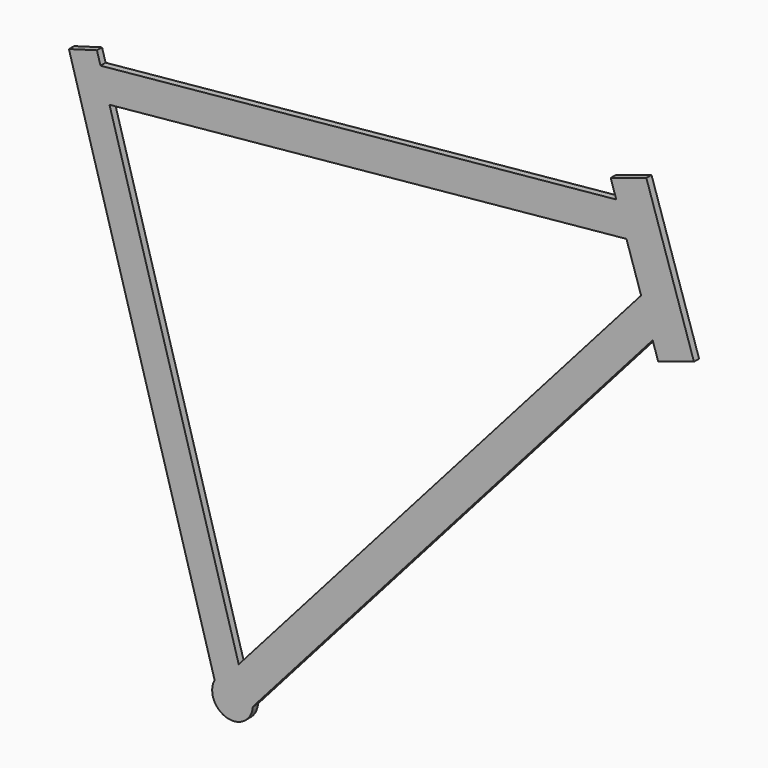
from build123d import *

# Parameters (mm, degrees)
F1_DEPTH = 6.35


with BuildPart() as f1:
    # F0 (on Front) → F1 (new body)
    with BuildSketch(Plane.XZ):
        Polygon((402.688704, 479.867094), (414.080955, 444.80535), (419.575277, 427.895565), (454.764368, 439.329194), (407.898724, 583.566814), (372.709633, 572.133186), (378.203955, 555.223401), (388.252375, 524.297546), align=None)
        Polygon((-130.170324, 506.022655), (-121.2706, 474.985629), (388.252375, 524.297546), (378.203955, 555.223401), align=None)
        with BuildLine():
            ThreePointArc((-17.660807, 9.525768), (-19.074206, 6.230491), (-19.878561, 2.736273))
            ThreePointArc((-19.878561, 2.736273), (-2.025003, -19.96356), (20.023118, -1.311152))
            ThreePointArc((20.023118, -1.311152), (20.055277, -0.655927), (20.066, 0))
            ThreePointArc((20.066, 0), (17.347712, 10.084704), (9.929326, 17.437111))
            ThreePointArc((9.929326, 17.437111), (-5.530939, 19.288677), (-17.660807, 9.525768))
        make_face()
        with BuildLine():
            ThreePointArc((20.066, 0), (20.055277, -0.655927), (20.023118, -1.311152))
            Line((20.023118, -1.311152), (414.080955, 444.80535))
            Line((414.080955, 444.80535), (402.688704, 479.867094))
            Line((402.688704, 479.867094), (6.079691, 30.862383))
            Line((6.079691, 30.862383), (9.929326, 17.437111))
            ThreePointArc((9.929326, 17.437111), (17.347712, 10.084704), (20.066, 0))
        make_face()
        with BuildLine():
            Line((-143.344624, 447.837325), (-17.660807, 9.525768))
            ThreePointArc((-17.660807, 9.525768), (-5.530939, 19.288677), (9.929326, 17.437111))
            Line((9.929326, 17.437111), (6.079691, 30.862383))
            Line((6.079691, 30.862383), (-121.2706, 474.985629))
            Line((-121.2706, 474.985629), (-130.170324, 506.022655))
            Line((-130.170324, 506.022655), (-133.670919, 518.230679))
            Line((-133.670919, 518.230679), (-161.261052, 510.319336))
            Line((-161.261052, 510.319336), (-143.344624, 447.837325))
        make_face()
    extrude(amount=F1_DEPTH)


solid = f1.part
